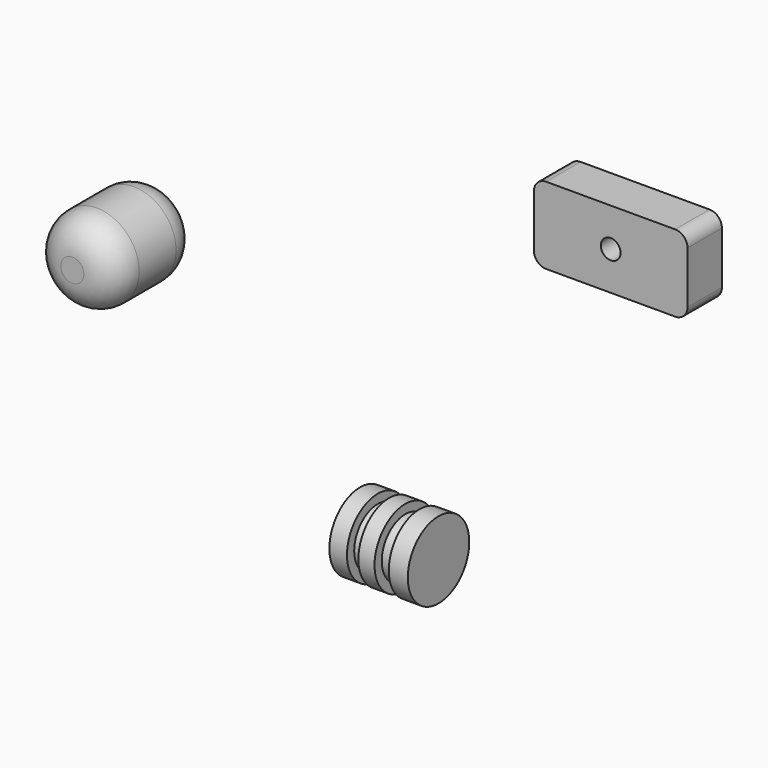
from build123d import *

# Parameters (mm, degrees)
F2_R     = 6.985
F3_DEPTH = 17.78
F4_R     = 5.08
F5_W     = 25.4
F5_H     = 12.7
F5_R     = 1.626873
F6_DEPTH = 7.112
F7_R     = 2.032


with BuildPart() as f1:
    # F0 (on Front) → F1 (revolve)
    with BuildSketch(Plane.XZ):
        Polygon((-8.857762, 6.35), (-8.857762, 0), (4.108202, 0), (4.108202, 6.35), (0.964937, 6.35), (0.964937, 4.85695), (-1.392511, 4.85695), (-1.392511, 6.35), (-4.064285, 6.35), (-4.064285, 4.85695), (-5.950243, 4.85695), (-5.950243, 6.35), align=None)
    revolve(axis=Axis((-2.37478, 0, 0), (-1, 0, 0)))


with BuildPart() as f3:
    # F2 (on Front) → F3 (new body)
    with BuildSketch(Plane.XZ):
        with Locations((-42.213276, 34.321759)):
            Circle(F2_R)
    extrude(amount=F3_DEPTH)

    # F4
    f4_edges = [f3.edges().sort_by_distance(p)[0] for p in [
        (-49.198276, -17.78, 34.321759),
        (-49.198276, 0, 34.321759),
    ]]
    fillet(f4_edges, radius=F4_R)


with BuildPart() as f6:
    # F5 (on Front) → F6 (new body)
    with BuildSketch(Plane.XZ):
        with Locations((38.263551, 59.210708)):
            Rectangle(F5_W, F5_H)
        with Locations((38.263551, 59.210708)):
            Circle(F5_R, mode=Mode.SUBTRACT)
    extrude(amount=F6_DEPTH)

    # F7
    f7_edges = [f6.edges().sort_by_distance(p)[0] for p in [
        (50.963551, -3.556, 65.560708),
        (25.563551, -3.556, 65.560708),
        (25.563551, -3.556, 52.860708),
        (50.963551, -3.556, 52.860708),
    ]]
    fillet(f7_edges, radius=F7_R)


solid = Compound([f1.part, f3.part, f6.part])
